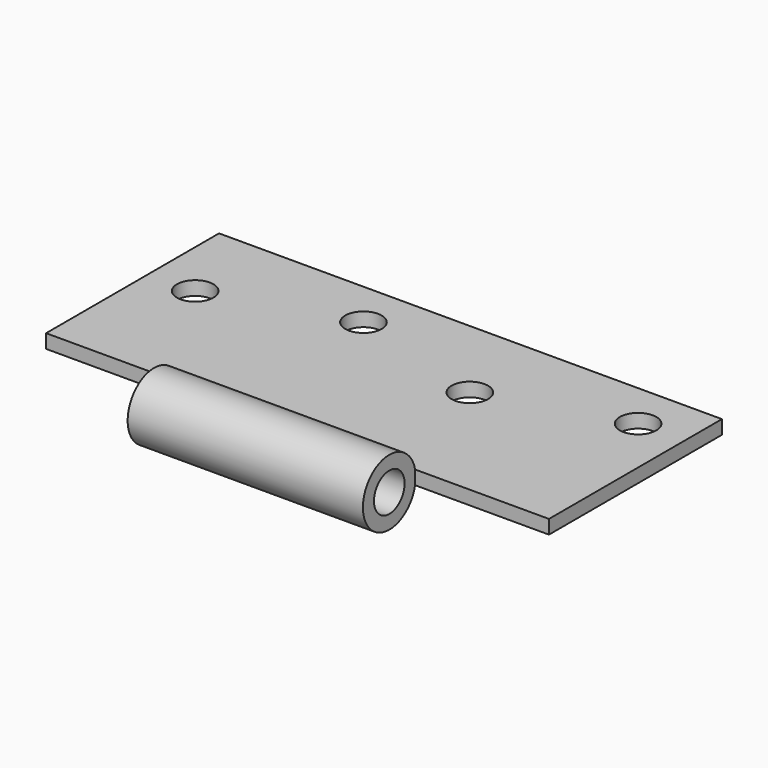
from build123d import *

# Parameters (mm, degrees)
F0_W          = 101.4095
F0_H          = 43.5991
F1_DEPTH      = 2.794
F2_R          = 6.6548
F2_R_2        = 3.8608
F3_DEPTH      = 23.71725
F3_DEPTH_BACK = 23.71725
F5_D          = 7.3533
F5_DEPTH      = 12.7


with BuildPart() as f1:
    # F0 (on Top) → F1 (new body)
    with BuildSketch(Plane.XY):
        with Locations((0.00635, 0)):
            Rectangle(F0_W, F0_H)
    extrude(amount=F1_DEPTH)

    # F2 (on Right) → F3 (join, two sides)
    with BuildSketch(Plane.YZ) as f3_sk:
        with Locations((-28.306066, 1.397)):
            Circle(F2_R)
        with Locations((-28.306066, 1.397)):
            Circle(F2_R_2, mode=Mode.SUBTRACT)
    extrude(amount=F3_DEPTH)
    extrude(f3_sk.sketch, amount=-F3_DEPTH_BACK)

    # F5
    with Locations(Plane.XY.offset(2.794)):
        with Locations((14.0208, 4.10845), (-14.0081, 12.33805), (-41.3639, 4.10845), (41.3766, 12.33805)):
            Hole(F5_D / 2, depth=F5_DEPTH)


solid = f1.part
